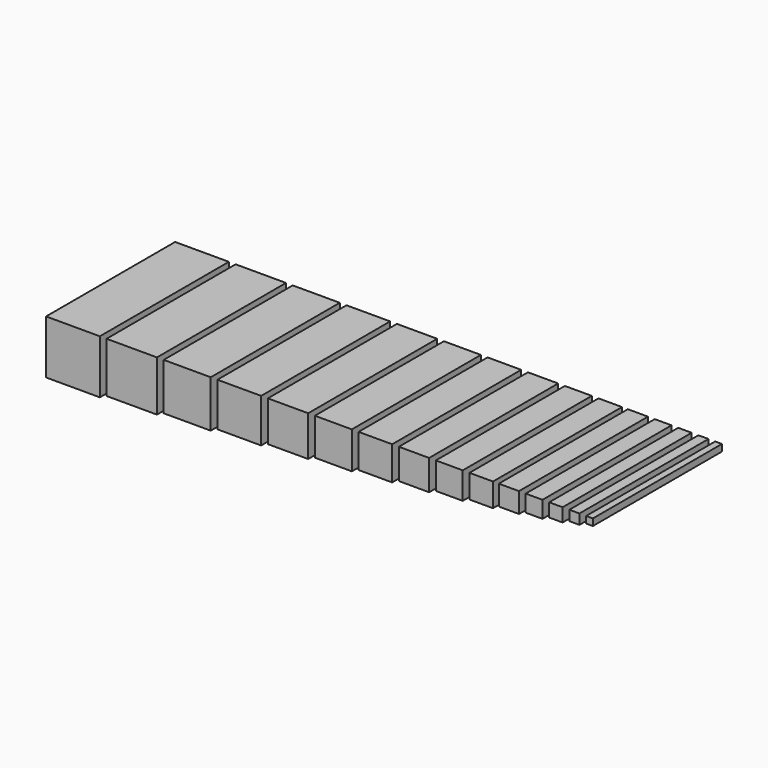
from build123d import *

# Parameters (mm, degrees)
F0_W     = 25.4
F0_H     = 25.4
F0_W_2   = 23.8125
F0_H_2   = 23.8125
F0_W_3   = 22.225
F0_H_3   = 22.225
F0_W_4   = 20.6375
F0_H_4   = 20.6375
F0_W_5   = 19.05
F0_H_5   = 19.05
F0_W_6   = 17.4625
F0_H_6   = 17.4625
F0_W_7   = 15.875
F0_H_7   = 15.875
F0_W_8   = 14.2875
F0_H_8   = 14.2875
F0_W_9   = 12.7
F0_H_9   = 12.7
F0_W_10  = 11.1125
F0_H_10  = 11.1125
F0_W_11  = 9.525
F0_H_11  = 9.525
F0_W_12  = 7.9375
F0_H_12  = 7.9375
F0_W_13  = 6.35
F0_H_13  = 6.35
F0_W_14  = 4.7625
F0_H_14  = 4.7625
F0_W_15  = 3.175
F0_H_15  = 3.175
F1_DEPTH = 76.2


with BuildPart() as f1:
    # F0 (on Front) → F1 (new body)
    with BuildSketch(Plane.XZ):
        with Locations((12.7, -12.7)):
            Rectangle(F0_W, F0_H)
        with Locations((40.48125, -11.90625)):
            Rectangle(F0_W_2, F0_H_2)
        with Locations((66.675, -11.1125)):
            Rectangle(F0_W_3, F0_H_3)
        with Locations((91.28125, -10.31875)):
            Rectangle(F0_W_4, F0_H_4)
        with Locations((114.3, -9.525)):
            Rectangle(F0_W_5, F0_H_5)
        with Locations((135.73125, -8.73125)):
            Rectangle(F0_W_6, F0_H_6)
        with Locations((155.575, -7.9375)):
            Rectangle(F0_W_7, F0_H_7)
        with Locations((173.83125, -7.14375)):
            Rectangle(F0_W_8, F0_H_8)
        with Locations((190.5, -6.35)):
            Rectangle(F0_W_9, F0_H_9)
        with Locations((205.58125, -5.55625)):
            Rectangle(F0_W_10, F0_H_10)
        with Locations((218.649631, -4.7625)):
            Rectangle(F0_W_11, F0_H_11)
        with Locations((230.555881, -3.96875)):
            Rectangle(F0_W_12, F0_H_12)
        with Locations((240.874631, -3.175)):
            Rectangle(F0_W_13, F0_H_13)
        with Locations((249.605881, -2.38125)):
            Rectangle(F0_W_14, F0_H_14)
        with Locations((256.749631, -1.5875)):
            Rectangle(F0_W_15, F0_H_15)
    extrude(amount=F1_DEPTH)


solid = f1.part
